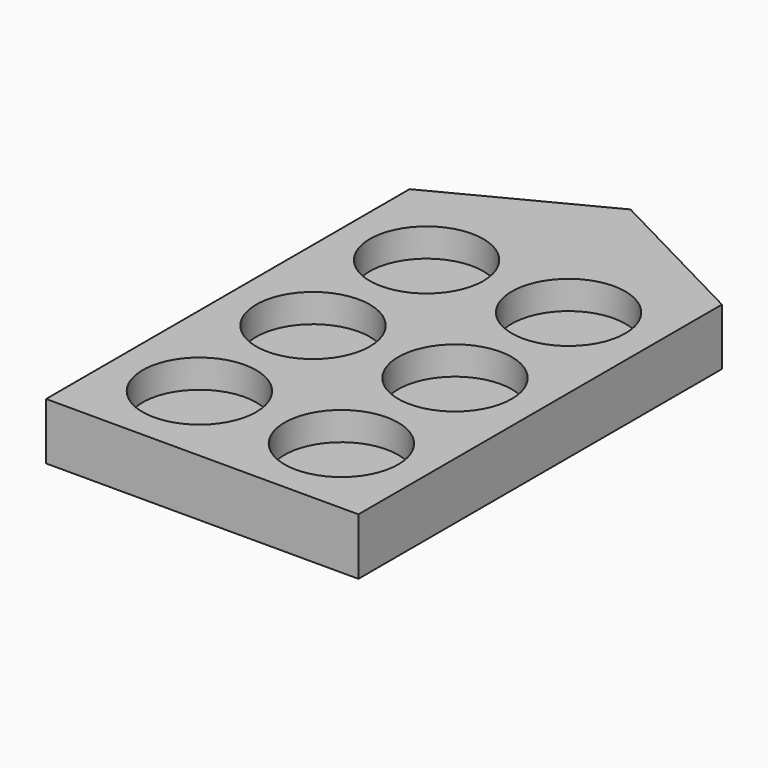
from build123d import *

# Parameters (mm, degrees)
F0_R     = 6
F1_DEPTH = 3
F2_DEPTH = 3


with BuildPart() as f1:
    # F0 (on Top) → F1 (new body)
    with BuildSketch(Plane.XY):
        Polygon((-9, 39), (-9, -9), (24, -9), (24, 39), (7.5, 47.554813), align=None)
        Circle(F0_R, mode=Mode.SUBTRACT)
        with Locations((0, 15)):
            Circle(F0_R, mode=Mode.SUBTRACT)
        with Locations((15, 0)):
            Circle(F0_R, mode=Mode.SUBTRACT)
        with Locations((15, 15)):
            Circle(F0_R, mode=Mode.SUBTRACT)
        with Locations((0, 30)):
            Circle(F0_R, mode=Mode.SUBTRACT)
        with Locations((15, 30)):
            Circle(F0_R, mode=Mode.SUBTRACT)
    extrude(amount=F1_DEPTH)

    # F0 (on Top) → F2 (join)
    with BuildSketch(Plane.XY):
        Polygon((-9, 39), (-9, -9), (24, -9), (24, 39), (7.5, 47.554813), align=None)
        Circle(F0_R, mode=Mode.SUBTRACT)
        with Locations((0, 15)):
            Circle(F0_R, mode=Mode.SUBTRACT)
        with Locations((15, 0)):
            Circle(F0_R, mode=Mode.SUBTRACT)
        with Locations((15, 15)):
            Circle(F0_R, mode=Mode.SUBTRACT)
        with Locations((0, 30)):
            Circle(F0_R, mode=Mode.SUBTRACT)
        with Locations((15, 30)):
            Circle(F0_R, mode=Mode.SUBTRACT)
        with Locations((0, 30)):
            Circle(F0_R)
        with Locations((0, 15)):
            Circle(F0_R)
        Circle(F0_R)
        with Locations((15, 0)):
            Circle(F0_R)
        with Locations((15, 15)):
            Circle(F0_R)
        with Locations((15, 30)):
            Circle(F0_R)
    extrude(amount=-F2_DEPTH)


solid = f1.part
